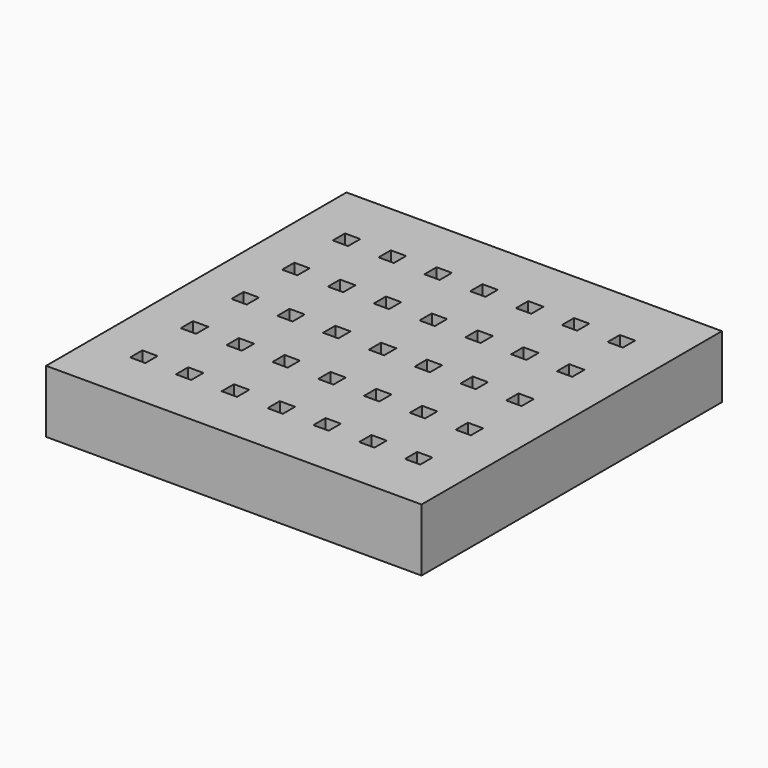
from build123d import *

# Parameters (mm, degrees)
F0_W     = 150
F0_H     = 150
F0_W_2   = 6.1
F0_H_2   = 6.1
F1_DEPTH = 25


with BuildPart() as f1:
    # F0 (on Top) → F1 (new body)
    with BuildSketch(Plane.XY):
        with Locations((-18.306946, 1.062334)):
            Rectangle(F0_W, F0_H)
        with Locations((-73.323034, -50.083685)):
            Rectangle(F0_W_2, F0_H_2, mode=Mode.SUBTRACT)
        with Locations((-55.023034, -50.083685)):
            Rectangle(F0_W_2, F0_H_2, mode=Mode.SUBTRACT)
        with Locations((-36.723034, -50.083685)):
            Rectangle(F0_W_2, F0_H_2, mode=Mode.SUBTRACT)
        with Locations((-18.423034, -50.083685)):
            Rectangle(F0_W_2, F0_H_2, mode=Mode.SUBTRACT)
        with Locations((-73.323034, -24.783685)):
            Rectangle(F0_W_2, F0_H_2, mode=Mode.SUBTRACT)
        with Locations((-73.323034, 0.516315)):
            Rectangle(F0_W_2, F0_H_2, mode=Mode.SUBTRACT)
        with Locations((-55.023034, -24.783685)):
            Rectangle(F0_W_2, F0_H_2, mode=Mode.SUBTRACT)
        with Locations((-36.723034, -24.783685)):
            Rectangle(F0_W_2, F0_H_2, mode=Mode.SUBTRACT)
        with Locations((-18.423034, -24.783685)):
            Rectangle(F0_W_2, F0_H_2, mode=Mode.SUBTRACT)
        with Locations((-55.023034, 0.516315)):
            Rectangle(F0_W_2, F0_H_2, mode=Mode.SUBTRACT)
        with Locations((-36.723034, 0.516315)):
            Rectangle(F0_W_2, F0_H_2, mode=Mode.SUBTRACT)
        with Locations((-18.423034, 0.516315)):
            Rectangle(F0_W_2, F0_H_2, mode=Mode.SUBTRACT)
        with Locations((-0.123034, -50.083685)):
            Rectangle(F0_W_2, F0_H_2, mode=Mode.SUBTRACT)
        with Locations((18.176966, -50.083685)):
            Rectangle(F0_W_2, F0_H_2, mode=Mode.SUBTRACT)
        with Locations((36.476966, -50.083685)):
            Rectangle(F0_W_2, F0_H_2, mode=Mode.SUBTRACT)
        with Locations((-0.123034, -24.783685)):
            Rectangle(F0_W_2, F0_H_2, mode=Mode.SUBTRACT)
        with Locations((18.176966, -24.783685)):
            Rectangle(F0_W_2, F0_H_2, mode=Mode.SUBTRACT)
        with Locations((-0.123034, 0.516315)):
            Rectangle(F0_W_2, F0_H_2, mode=Mode.SUBTRACT)
        with Locations((18.176966, 0.516315)):
            Rectangle(F0_W_2, F0_H_2, mode=Mode.SUBTRACT)
        with Locations((36.476966, -24.783685)):
            Rectangle(F0_W_2, F0_H_2, mode=Mode.SUBTRACT)
        with Locations((36.476966, 0.516315)):
            Rectangle(F0_W_2, F0_H_2, mode=Mode.SUBTRACT)
        with Locations((-73.323034, 25.816315)):
            Rectangle(F0_W_2, F0_H_2, mode=Mode.SUBTRACT)
        with Locations((-55.023034, 25.816315)):
            Rectangle(F0_W_2, F0_H_2, mode=Mode.SUBTRACT)
        with Locations((-36.723034, 25.816315)):
            Rectangle(F0_W_2, F0_H_2, mode=Mode.SUBTRACT)
        with Locations((-18.423034, 25.816315)):
            Rectangle(F0_W_2, F0_H_2, mode=Mode.SUBTRACT)
        with Locations((-73.323034, 51.116315)):
            Rectangle(F0_W_2, F0_H_2, mode=Mode.SUBTRACT)
        with Locations((-55.023034, 51.116315)):
            Rectangle(F0_W_2, F0_H_2, mode=Mode.SUBTRACT)
        with Locations((-36.723034, 51.116315)):
            Rectangle(F0_W_2, F0_H_2, mode=Mode.SUBTRACT)
        with Locations((-18.423034, 51.116315)):
            Rectangle(F0_W_2, F0_H_2, mode=Mode.SUBTRACT)
        with Locations((-0.123034, 25.816315)):
            Rectangle(F0_W_2, F0_H_2, mode=Mode.SUBTRACT)
        with Locations((18.176966, 25.816315)):
            Rectangle(F0_W_2, F0_H_2, mode=Mode.SUBTRACT)
        with Locations((36.476966, 25.816315)):
            Rectangle(F0_W_2, F0_H_2, mode=Mode.SUBTRACT)
        with Locations((-0.123034, 51.116315)):
            Rectangle(F0_W_2, F0_H_2, mode=Mode.SUBTRACT)
        with Locations((18.176966, 51.116315)):
            Rectangle(F0_W_2, F0_H_2, mode=Mode.SUBTRACT)
        with Locations((36.476966, 51.116315)):
            Rectangle(F0_W_2, F0_H_2, mode=Mode.SUBTRACT)
    extrude(amount=F1_DEPTH)


solid = f1.part
